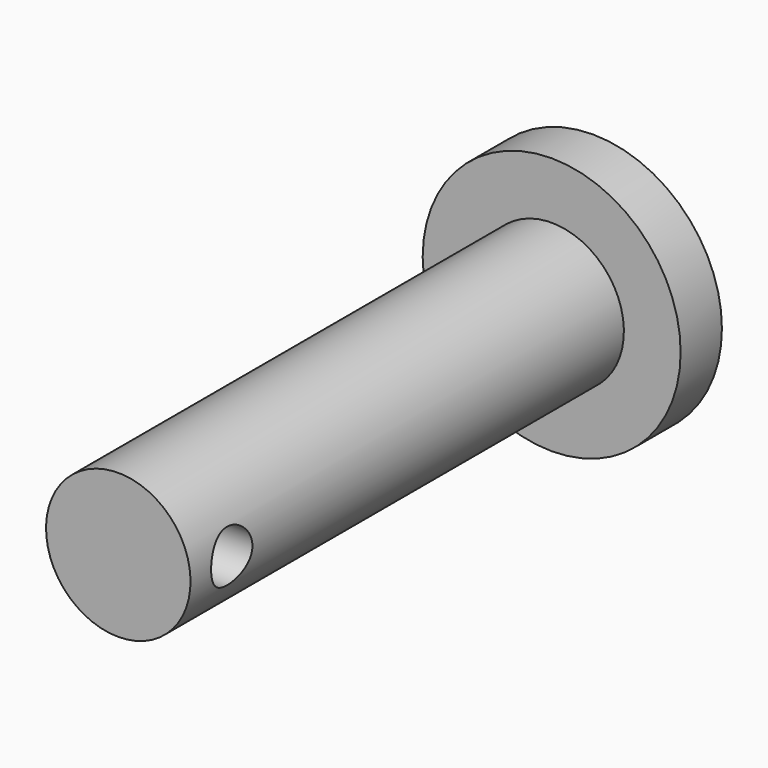
from build123d import *

# Parameters (mm, degrees)
SKETCH017_R            = 1
PAD017_DEPTH           = 10
CYLINDER032_R          = 2.8
CYLINDER032_DEPTH      = 21
CYLINDER033_R          = 5
CYLINDER033_DEPTH      = 2
CUT015_PITCH_ANGLE     = 90
CUT015_PLACEMENT_ANGLE = -90


with BuildPart() as pad017:
    # Sketch017 → Pad017 (new body)
    with BuildSketch(Plane(origin=(0, 4.2, 21), x_dir=(1, 0, 0), z_dir=(0, -1, 0))):
        Circle(SKETCH017_R)
    extrude(amount=PAD017_DEPTH)


with BuildPart() as eje001:
    # Cylinder032 → Cylinder032 (new body)
    with BuildSketch(Plane.XY.offset(2)):
        Circle(CYLINDER032_R)
    extrude(amount=CYLINDER032_DEPTH)


with BuildPart() as eje_full1:
    # Cylinder033 → Cylinder033 (new body)
    with BuildSketch(Plane.XY):
        Circle(CYLINDER033_R)
    extrude(amount=CYLINDER033_DEPTH)

    # Fusion009003019: union Eje001
    add(eje001.part)

    # Cut015: cut Pad017
    add(pad017.part, mode=Mode.SUBTRACT)


with BuildPart() as eje_full1_1:
    # Cut015 pitch: moved
    add(eje_full1.part.rotate(Axis((0, 0, 0), (0, 1, 0)), CUT015_PITCH_ANGLE))


with BuildPart() as eje_full1_2:
    # Cut015 placement: moved
    add(eje_full1_1.part.moved(Location((367.5, 80, 312))).rotate(Axis((367.5, 80, 312), (0, 0, 1)), CUT015_PLACEMENT_ANGLE))


solid = eje_full1_2.part
